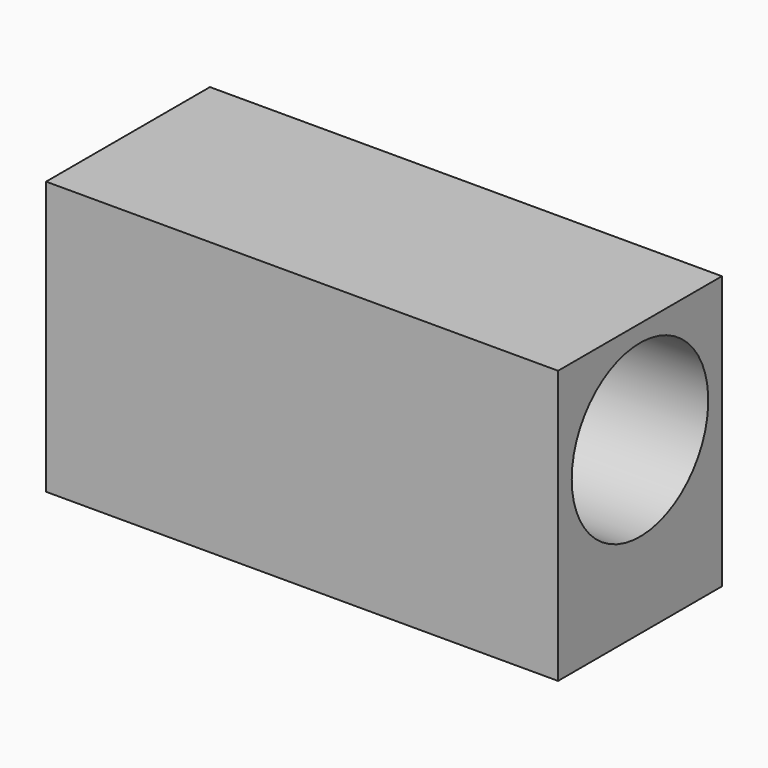
from build123d import *

# Parameters (mm, degrees)
F0_W     = 75
F0_H     = 30
F1_DEPTH = 40
F3_D     = 25


with BuildPart() as f1:
    # F0 (on Top) → F1 (new body)
    with BuildSketch(Plane.XY):
        Rectangle(F0_W, F0_H)
    extrude(amount=F1_DEPTH)

    # F3 (through all)
    with Locations(Plane.YZ.offset(37.5)):
        with Locations((0, 25)):
            Hole(F3_D / 2)


solid = f1.part
